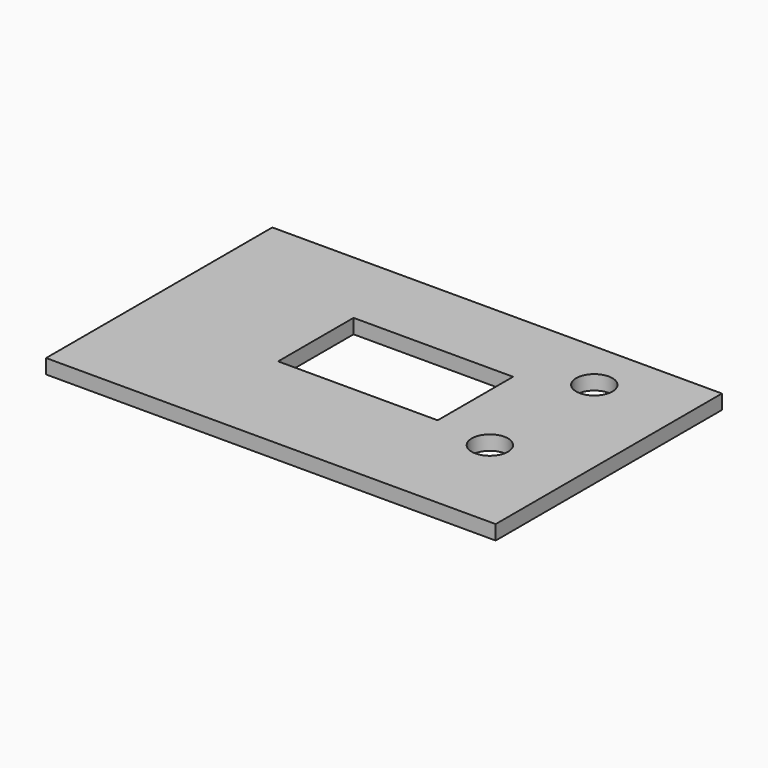
from build123d import *

# Parameters (mm, degrees)
SKETCH_W        = 62
SKETCH_H        = 39
PAD_DEPTH       = 2
SKETCH001_W     = 22
SKETCH001_H     = 13
POCKET_DEPTH    = 2.001
SKETCH002_R     = 2.5
POCKET001_DEPTH = 5
SKETCH003_R     = 2.5
POCKET002_DEPTH = 5


with BuildPart() as part:
    # Sketch → Pad (new body)
    with BuildSketch(Plane.XY):
        with Locations((31, 19.5)):
            Rectangle(SKETCH_W, SKETCH_H)
    extrude(amount=PAD_DEPTH)

    # Sketch001 (on Face6 of Pad) → Pocket (cut, through all)
    with BuildSketch(Plane.XY.offset(2)):
        with Locations((31, 21.5)):
            Rectangle(SKETCH001_W, SKETCH001_H)
    extrude(amount=-POCKET_DEPTH, mode=Mode.SUBTRACT)

    # Sketch002 (on Face5 of Pocket) → Pocket001 (cut)
    with BuildSketch(Plane.XY.offset(2)):
        with Locations((50, 32)):
            Circle(SKETCH002_R)
    extrude(amount=-POCKET001_DEPTH, mode=Mode.SUBTRACT)

    # Sketch003 (on Face5 of Pocket001) → Pocket002 (cut)
    with BuildSketch(Plane.XY.offset(2)):
        with Locations((50, 14)):
            Circle(SKETCH003_R)
    extrude(amount=-POCKET002_DEPTH, mode=Mode.SUBTRACT)


solid = part.part
